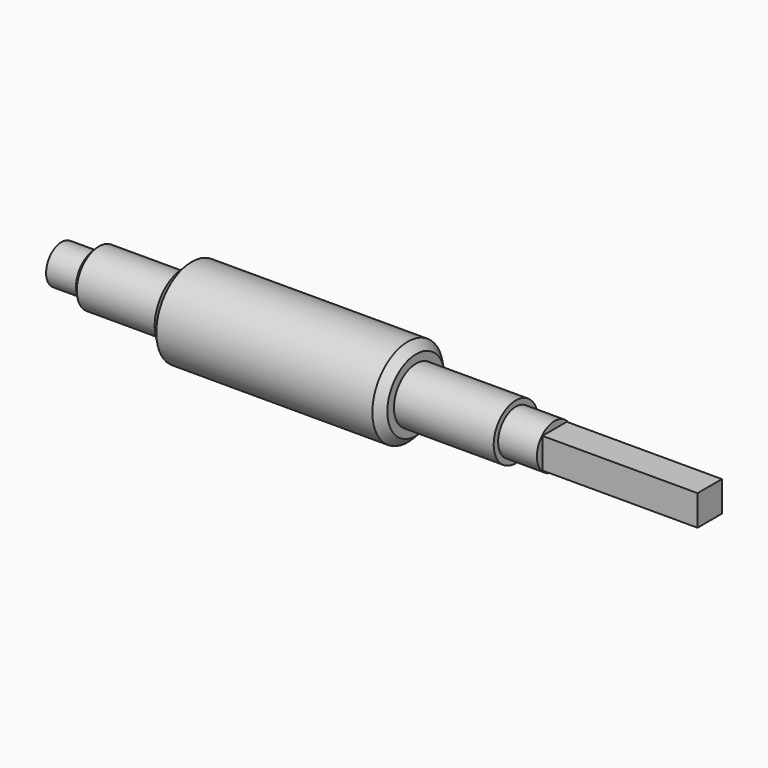
from build123d import *

# Parameters (mm, degrees)
F3_DEPTH = 22.225
F4_SIZE  = 0.58928
F5_SIZE  = 1.18999
F6_SIZE  = 1.18999


with BuildPart() as f1:
    # F0 (on Front) → F1 (revolve)
    with BuildSketch(Plane.XZ):
        with BuildLine():
            Line((-30.559375, 2.778125), (-35.321875, 2.778125))
            ThreePointArc((-35.321875, 2.778125), (-35.90249, 1.44156), (-36.115625, 0))
            Line((-36.115625, 0), (-35.321875, 0))
            Line((-35.321875, 0), (35.321875, 0))
            Line((35.321875, 0), (35.321875, 3.175))
            Line((35.321875, 3.175), (29.765625, 3.175))
            Line((29.765625, 3.175), (29.765625, 3.96875))
            Line((29.765625, 3.96875), (15.478125, 3.96875))
            Line((15.478125, 3.96875), (15.478125, 6.35))
            Line((15.478125, 6.35), (-17.859375, 6.35))
            Line((-17.859375, 6.35), (-17.859375, 3.96875))
            Line((-17.859375, 3.96875), (-30.559375, 3.96875))
            Line((-30.559375, 3.96875), (-30.559375, 2.778125))
        make_face()
    revolve(axis=Axis((0, 0, 0), (-1, 0, 0)))

    # F2 (on face) → F3 (join)
    with BuildSketch(Plane.YZ.offset(35.321875)):
        Polygon((-2.182812, -2.182813), (2.182813, -2.182812), (2.182812, 2.182813), (-2.182812, 2.182813), align=None)
    extrude(amount=F3_DEPTH)

    # F4
    f4_edges = [f1.edges().sort_by_distance(p)[0] for p in [
        (-30.559375, 0, -3.96875),
    ]]
    chamfer(f4_edges, length=F4_SIZE)

    # F5
    f5_edges = [f1.edges().sort_by_distance(p)[0] for p in [
        (-17.859375, 0, -6.35),
    ]]
    chamfer(f5_edges, length=F5_SIZE)

    # F6
    f6_edges = [f1.edges().sort_by_distance(p)[0] for p in [
        (15.478125, 0, -6.35),
    ]]
    chamfer(f6_edges, length=F6_SIZE)


solid = f1.part
